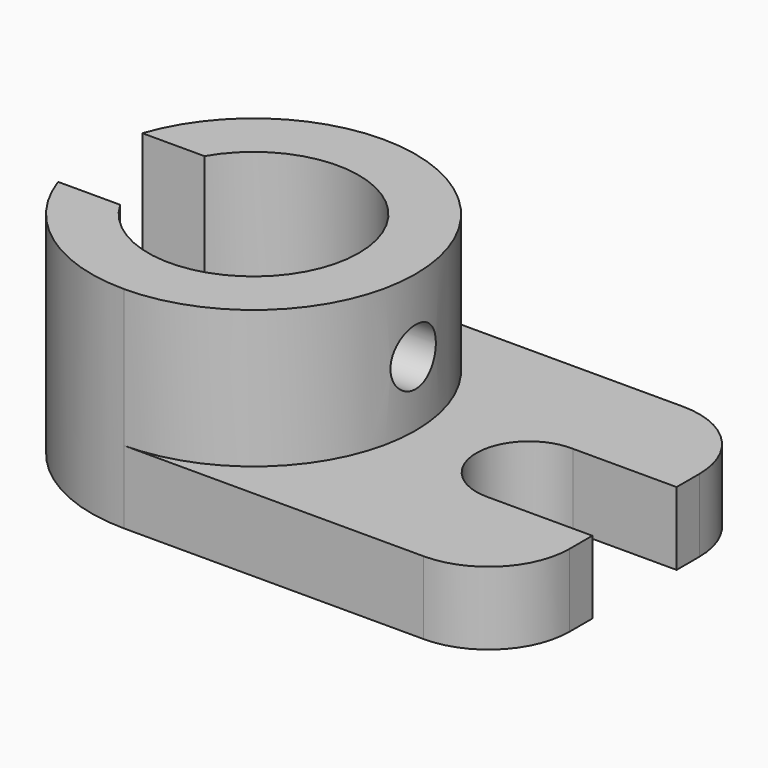
from build123d import *

# Parameters (mm, degrees)
F1_DEPTH = 41.275
F2_DEPTH = 14.2875
F4_R     = 5.55625
F5_DEPTH = 38.1


with BuildPart() as f1:
    # F0 (on Top) → F1 (new body)
    with BuildSketch(Plane.XY):
        with BuildLine():
            ThreePointArc((-21.4376, -31.75), (10.3124, 0), (-21.4376, 31.75))
            ThreePointArc((-21.4376, 31.75), (-39.882683, 25.842628), (-51.46402, 10.31875))
            Line((-51.46402, 10.31875), (-39.310199, 10.31875))
            ThreePointArc((-39.310199, 10.31875), (-0.8001, 0), (-39.310199, -10.31875))
            Line((-39.310199, -10.31875), (-51.46402, -10.31875))
            ThreePointArc((-51.46402, -10.31875), (-39.882683, -25.842628), (-21.4376, -31.75))
        make_face()
    extrude(amount=F1_DEPTH)

    # F0 (on Top) → F2 (join)
    with BuildSketch(Plane.XY):
        with BuildLine():
            ThreePointArc((-21.4376, -31.75), (10.3124, 0), (-21.4376, 31.75))
            ThreePointArc((-21.4376, 31.75), (-39.882683, 25.842628), (-51.46402, 10.31875))
            Line((-51.46402, 10.31875), (-39.310199, 10.31875))
            ThreePointArc((-39.310199, 10.31875), (-0.8001, 0), (-39.310199, -10.31875))
            Line((-39.310199, -10.31875), (-51.46402, -10.31875))
            ThreePointArc((-51.46402, -10.31875), (-39.882683, -25.842628), (-21.4376, -31.75))
        make_face()
        with BuildLine():
            Line((37.2999, 31.75), (-21.4376, 31.75))
            ThreePointArc((-21.4376, 31.75), (10.3124, 0), (-21.4376, -31.75))
            Line((-21.4376, -31.75), (37.2999, -31.75))
            ThreePointArc((37.2999, -31.75), (48.52522, -27.10032), (53.1749, -15.875))
            Line((53.1749, -15.875), (53.1749, -10.31875))
            Line((53.1749, -10.31875), (32.5374, -10.31875))
            ThreePointArc((32.5374, -10.31875), (22.219841, 0.156758), (32.850879, 10.313987))
            Line((32.850879, 10.313987), (53.1749, 10.313987))
            Line((53.1749, 10.313987), (53.1749, 15.875))
            ThreePointArc((53.1749, 15.875), (48.52522, 27.10032), (37.2999, 31.75))
        make_face()
    extrude(amount=F2_DEPTH)

    # F4 (on offset) → F5 (cut)
    with BuildSketch(Plane.YZ.offset(25.4)):
        with Locations((0, 26.9875)):
            Circle(F4_R)
    extrude(amount=-F5_DEPTH, mode=Mode.SUBTRACT)


solid = f1.part
